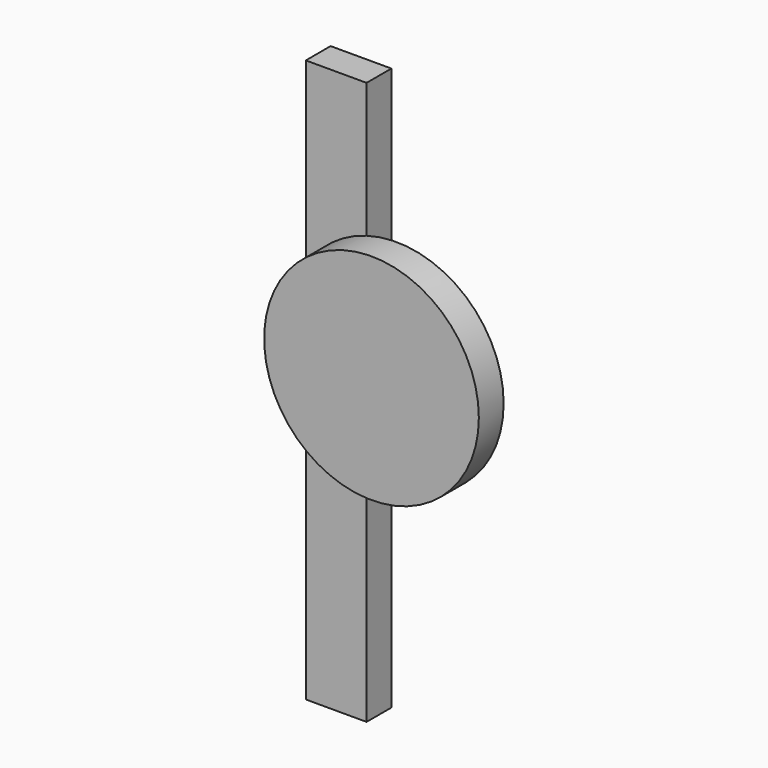
from build123d import *

# Parameters (mm, degrees)
F0_R     = 87.939634
F1_DEPTH = 25.4
F2_W     = 49.783926
F2_H     = 460.88621
F3_DEPTH = 25.4


with BuildPart() as f1:
    # F0 (on Front) → F1 (new body)
    with BuildSketch(Plane.XZ):
        Circle(F0_R)
    extrude(amount=F1_DEPTH)

    # F2 (on face) → F3 (join)
    with BuildSketch(Plane(origin=(0, 0, 0), x_dir=(-1, 0, 0), z_dir=(0, 1, 0))):
        with BuildLine():
            Line((74.138304, 194.744006), (24.354378, 194.744006))
            Line((24.354378, 194.744006), (24.354378, 84.499962))
            ThreePointArc((24.354378, 84.499962), (52.642567, 70.442454), (74.138304, 47.295783))
            Line((74.138304, 47.295783), (74.138304, 194.744006))
        make_face()
        with BuildLine():
            Line((74.138304, 194.744006), (24.354378, 194.744006))
            Line((24.354378, 194.744006), (24.354378, 84.499962))
            ThreePointArc((24.354378, 84.499962), (52.642567, 70.442454), (74.138304, 47.295783))
            Line((74.138304, 47.295783), (74.138304, 194.744006))
        make_face()
        with BuildLine():
            ThreePointArc((74.138304, -47.295783), (52.642567, -70.442454), (24.354378, -84.499962))
            Line((24.354378, -84.499962), (24.354378, -266.142204))
            Line((24.354378, -266.142204), (74.138304, -266.142204))
            Line((74.138304, -266.142204), (74.138304, -47.295783))
        make_face()
        with Locations((49.246341, -35.699099)):
            Rectangle(F2_W, F2_H)
    extrude(amount=F3_DEPTH)


solid = f1.part
